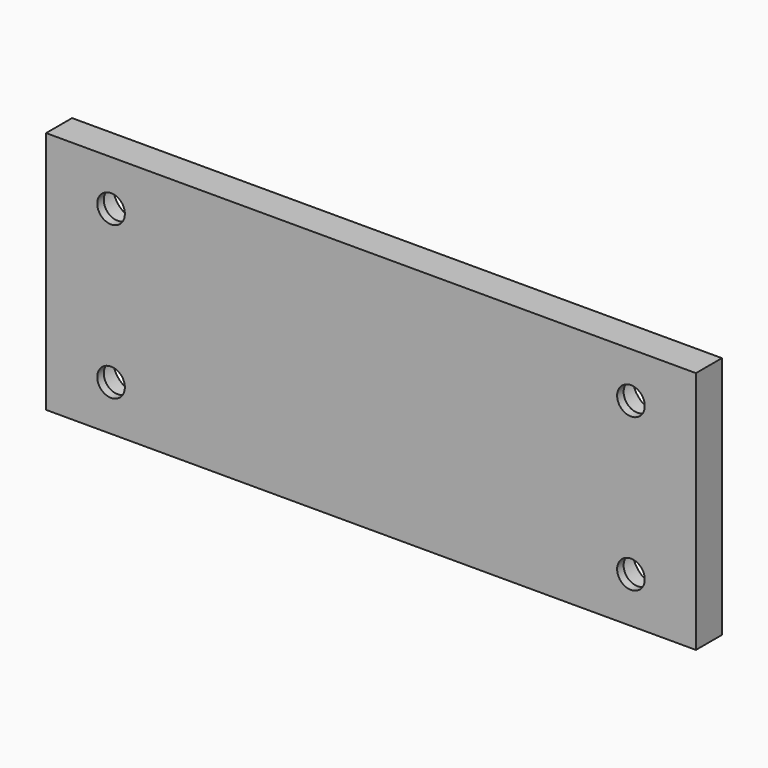
from build123d import *

# Parameters (mm, degrees)
F0_W           = 400
F0_H           = 150
F1_DEPTH       = 20
F2_D           = 17
F2_DEPTH       = 35
F2_CBORE_D     = 30
F2_CBORE_DEPTH = 15
F2_TIP         = 5.1073152617


with BuildPart() as f1:
    # F0 (on Front) → F1 (new body)
    with BuildSketch(Plane.XZ):
        with Locations((200, 75)):
            Rectangle(F0_W, F0_H)
    extrude(amount=F1_DEPTH)

    # F2
    with Locations(Plane(origin=(0, 0, 0), x_dir=(1, 0, 0), z_dir=(0, 1, 0))):
        with Locations((360, -122), (360, -28), (40, -122), (40, -28)):
            CounterBoreHole(F2_D / 2, F2_CBORE_D / 2, F2_CBORE_DEPTH, depth=F2_DEPTH)
            with Locations((0, 0, -(F2_DEPTH + F2_TIP / 2))):  # 118° drill point
                Cone(0, F2_D / 2, F2_TIP, mode=Mode.SUBTRACT)


solid = f1.part
